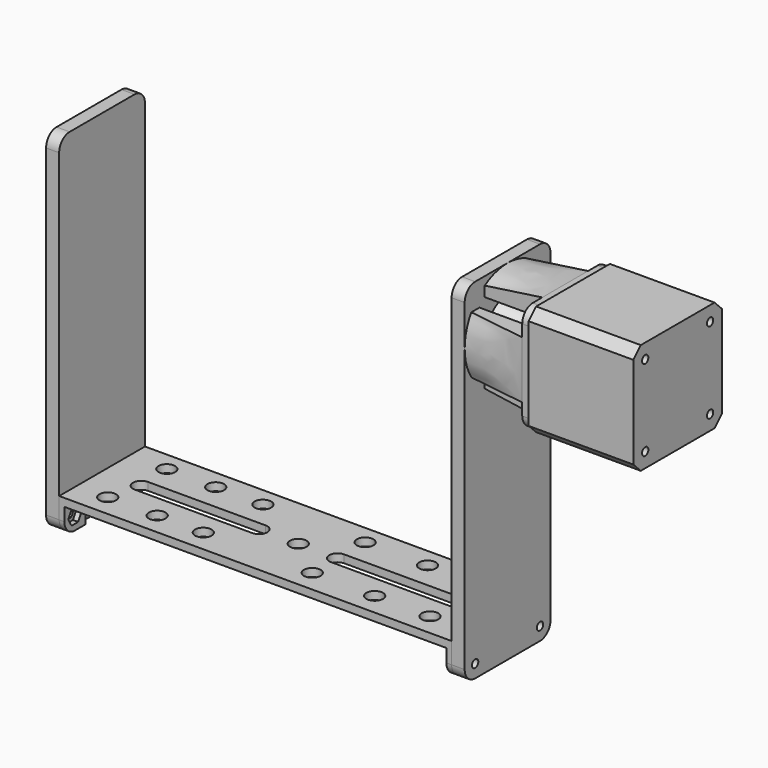
from build123d import *

# Parameters (mm, degrees)
PAD002_DEPTH            = 40
SKETCH006_R             = 1.5
HOLE_DEPTH              = 4.5
HOLE_TIPS_R             = 1.5
SKETCH002_R             = 1.5
HOLE001_DEPTH           = 4.5
HOLE001_TIPS_R          = 1.5
SKETCH007_R             = 11
PAD003_DEPTH            = 2
PAD004_DEPTH            = 23
BODY001_PLACEMENT_ANGLE = 90
PAD_DEPTH               = 3
SKETCH_R                = 1.5
POCKET_DEPTH            = 3
SKETCH014_W             = 21.885622
SKETCH014_H             = 7.057189
ARRAY_COUNT             = 4
FUSION_ROLL_ANGLE       = -90
FUSION_PLACEMENT_ANGLE  = 90
SKETCH017_R             = 1.5
PAD005_DEPTH            = 5
SKETCH018_R             = 10
SKETCH019_R             = 6
POCKET001_DEPTH         = 18
PAD006_DEPTH            = 2
SKETCH022_W             = 41
SKETCH022_H             = 3
PAD007_DEPTH            = 150
SKETCH023_R             = 3.175
POCKET002_DEPTH         = 5
PAD008_DEPTH            = 2
SKETCH025_R             = 1.5
PAD009_DEPTH            = 5


with BuildPart() as motor_nema17:
    # Sketch005 → Pad002 (new body)
    with BuildSketch(Plane.XY):
        Polygon((-17.614466, 21.15), (17.614466, 21.15), (21.15, 17.614466), (21.15, -17.614466), (17.614466, -21.15), (-17.614466, -21.15), (-21.15, -17.614466), (-21.15, 17.614466), align=None)
    extrude(amount=PAD002_DEPTH)

    # Sketch006 (on Face10 of Pad002) → Hole (cut)
    with BuildSketch(Plane.XY.offset(40)):
        with Locations((15.5, 15.5)):
            Circle(SKETCH006_R)
        with Locations((-15.5, 15.5)):
            Circle(SKETCH006_R)
        with Locations((-15.5, -15.5)):
            Circle(SKETCH006_R)
        with Locations((15.5, -15.5)):
            Circle(SKETCH006_R)
    extrude(amount=-HOLE_DEPTH, mode=Mode.SUBTRACT)

    # Hole tips → Hole tip 1 section 0
    with BuildSketch(Plane.XY.offset(35.5), mode=Mode.PRIVATE) as hole_tip_1_s0:
        with Locations((15.5, 15.5)):
            Circle(HOLE_TIPS_R)
    loft([hole_tip_1_s0.sketch, Vertex(15.5, 15.5, 34.598709)], mode=Mode.SUBTRACT)

    # Hole tips → Hole tip 2 section 0
    with BuildSketch(Plane.XY.offset(35.5), mode=Mode.PRIVATE) as hole_tip_2_s0:
        with Locations((-15.5, 15.5)):
            Circle(HOLE_TIPS_R)
    loft([hole_tip_2_s0.sketch, Vertex(-15.5, 15.5, 34.598709)], mode=Mode.SUBTRACT)

    # Hole tips → Hole tip 3 section 0
    with BuildSketch(Plane.XY.offset(35.5), mode=Mode.PRIVATE) as hole_tip_3_s0:
        with Locations((-15.5, -15.5)):
            Circle(HOLE_TIPS_R)
    loft([hole_tip_3_s0.sketch, Vertex(-15.5, -15.5, 34.598709)], mode=Mode.SUBTRACT)

    # Hole tips → Hole tip 4 section 0
    with BuildSketch(Plane.XY.offset(35.5), mode=Mode.PRIVATE) as hole_tip_4_s0:
        with Locations((15.5, -15.5)):
            Circle(HOLE_TIPS_R)
    loft([hole_tip_4_s0.sketch, Vertex(15.5, -15.5, 34.598709)], mode=Mode.SUBTRACT)

    # Sketch002 → Hole001 (cut)
    with BuildSketch(Plane.XY):
        with Locations((-15.5, 15.5)):
            Circle(SKETCH002_R)
        with Locations((-15.5, -15.5)):
            Circle(SKETCH002_R)
        with Locations((15.5, -15.5)):
            Circle(SKETCH002_R)
        with Locations((15.5, 15.5)):
            Circle(SKETCH002_R)
    extrude(amount=HOLE001_DEPTH, mode=Mode.SUBTRACT)

    # Hole001 tips → Hole001 tip 1 section 0
    with BuildSketch(Plane.XY.offset(4.5), mode=Mode.PRIVATE) as hole001_tip_1_s0:
        with Locations((-15.5, 15.5)):
            Circle(HOLE001_TIPS_R)
    loft([hole001_tip_1_s0.sketch, Vertex(-15.5, 15.5, 5.401291)], mode=Mode.SUBTRACT)

    # Hole001 tips → Hole001 tip 2 section 0
    with BuildSketch(Plane.XY.offset(4.5), mode=Mode.PRIVATE) as hole001_tip_2_s0:
        with Locations((-15.5, -15.5)):
            Circle(HOLE001_TIPS_R)
    loft([hole001_tip_2_s0.sketch, Vertex(-15.5, -15.5, 5.401291)], mode=Mode.SUBTRACT)

    # Hole001 tips → Hole001 tip 3 section 0
    with BuildSketch(Plane.XY.offset(4.5), mode=Mode.PRIVATE) as hole001_tip_3_s0:
        with Locations((15.5, -15.5)):
            Circle(HOLE001_TIPS_R)
    loft([hole001_tip_3_s0.sketch, Vertex(15.5, -15.5, 5.401291)], mode=Mode.SUBTRACT)

    # Hole001 tips → Hole001 tip 4 section 0
    with BuildSketch(Plane.XY.offset(4.5), mode=Mode.PRIVATE) as hole001_tip_4_s0:
        with Locations((15.5, 15.5)):
            Circle(HOLE001_TIPS_R)
    loft([hole001_tip_4_s0.sketch, Vertex(15.5, 15.5, 5.401291)], mode=Mode.SUBTRACT)

    # Sketch007 (on Face5 of Hole001) → Pad003 (join)
    with BuildSketch(Plane.XY.offset(40)):
        Circle(SKETCH007_R)
    extrude(amount=PAD003_DEPTH)

    # Sketch008 (on Face27 of Pad003) → Pad004 (join)
    with BuildSketch(Plane.XY.offset(42)):
        with BuildLine():
            ThreePointArc((-1.581929, 1.6), (0, -2.25), (1.581929, 1.6))
            Line((-1.581929, 1.6), (1.581929, 1.6))
        make_face()
    extrude(amount=PAD004_DEPTH)


with BuildPart() as motor_nema17_1:
    # Body001 placement: moved
    add(motor_nema17.part.rotate(Axis((0, 0, 0), (0, -1, 0)), BODY001_PLACEMENT_ANGLE))


with BuildPart() as motor_attachment:
    # Sketch001 → Pad (new body)
    with BuildSketch(Plane.XY):
        with BuildLine():
            ThreePointArc((-15.5, 20.5), (-19.035534, 19.035534), (-20.5, 15.5))
            Line((-20.5, 15.5), (-20.5, -15.5))
            ThreePointArc((-20.5, -15.5), (-19.035534, -19.035534), (-15.5, -20.5))
            Line((-15.5, -20.5), (15.5, -20.5))
            ThreePointArc((15.5, -20.5), (19.035534, -19.035534), (20.5, -15.5))
            Line((20.5, -15.5), (20.5, 15.5))
            ThreePointArc((20.5, 15.5), (19.035534, 19.035534), (15.5, 20.5))
            Line((-15.5, 20.5), (15.5, 20.5))
        make_face()
        with BuildLine():
            ThreePointArc((-10.942811, 13.442811), (-12.710578, 12.710578), (-13.442811, 10.942811))
            Line((-13.442811, -10.942811), (-13.442811, 10.942811))
            ThreePointArc((-13.442811, -10.942811), (-12.710578, -12.710578), (-10.942811, -13.442811))
            Line((10.942811, -13.442811), (-10.942811, -13.442811))
            ThreePointArc((10.942811, -13.442811), (12.710578, -12.710578), (13.442811, -10.942811))
            Line((13.442811, 10.942811), (13.442811, -10.942811))
            ThreePointArc((13.442811, 10.942811), (12.710578, 12.710578), (10.942811, 13.442811))
            Line((-10.942811, 13.442811), (10.942811, 13.442811))
        make_face(mode=Mode.SUBTRACT)
    extrude(amount=PAD_DEPTH)

    # Sketch → Pocket (cut)
    with BuildSketch(Plane.XY):
        with Locations((-15.5, 15.5)):
            Circle(SKETCH_R)
        with Locations((15.5, 15.5)):
            Circle(SKETCH_R)
        with Locations((15.5, -15.5)):
            Circle(SKETCH_R)
        with Locations((-15.5, -15.5)):
            Circle(SKETCH_R)
    extrude(amount=POCKET_DEPTH, mode=Mode.SUBTRACT)


with BuildPart() as motor_table_connector:
    # Sketch014 (on ShapeBinder) → AdditiveLoft section 0
    with BuildSketch(Plane.XY.offset(3)):
        with Locations((0, 16.971405)):
            Rectangle(SKETCH014_W, SKETCH014_H)
    # Sketch015 (on ShapeBinder) → AdditiveLoft section 1
    with BuildSketch(Plane.XY.offset(25)):
        with BuildLine():
            ThreePointArc((10.942811, 17.335077), (0, 20.5), (-10.942811, 17.335077))
            Line((-10.942811, 17.335077), (-10.942811, 13.442811))
            Line((-10.942811, 13.442811), (10.942811, 13.442811))
            Line((10.942811, 13.442811), (10.942811, 17.335077))
        make_face()
    loft()

    # Array: Motor-Table-connector ×4 about axis
    array_axis = Axis((0, 0, 0), (0, 0, 1))


with BuildPart() as motor_table_connector_1:
    add(motor_table_connector.part)
    for i in range(1, ARRAY_COUNT):
        add(motor_table_connector.part.rotate(array_axis, i * 360 / ARRAY_COUNT))

    # Fusion: union Motor-Attachment
    add(motor_attachment.part)


with BuildPart() as motor_table_connector_2:
    # Fusion roll: moved
    add(motor_table_connector_1.part.rotate(Axis((0, 0, 0), (1, 0, 0)), FUSION_ROLL_ANGLE))


with BuildPart() as motor_table_connector_3:
    # Fusion placement: moved
    add(motor_table_connector_2.part.moved(Location((-40, 0, 0))).rotate(Axis((-40, 0, 0), (0, 0, 1)), FUSION_PLACEMENT_ANGLE))


with BuildPart() as body:
    # Sketch017 (on ShapeBinder) → Pad005 (new body)
    with BuildSketch(Plane(origin=(-65, 0, 0), x_dir=(0, -1, 0), z_dir=(-1, 0, 0))):
        with BuildLine():
            ThreePointArc((-15.5, 20.5), (-19.035534, 19.035534), (-20.5, 15.5))
            Line((-20.5, 15.5), (-20.5, -108))
            ThreePointArc((-20.5, -108), (-19.035534, -111.535534), (-15.5, -113))
            Line((-15.5, -113), (15.5, -113))
            ThreePointArc((15.5, -113), (19.035534, -111.535534), (20.5, -108))
            Line((20.5, 15.5), (20.5, -108))
            ThreePointArc((20.5, 15.5), (19.035534, 19.035534), (15.5, 20.5))
            Line((-15.5, 20.5), (15.5, 20.5))
        make_face()
        with Locations((15.5, -108)):
            Circle(SKETCH017_R, mode=Mode.SUBTRACT)
        with Locations((-15.5, -108)):
            Circle(SKETCH017_R, mode=Mode.SUBTRACT)
    extrude(amount=PAD005_DEPTH)

    # Sketch018 (on Face11 of Pad005) → AdditiveLoft001 section 0
    with BuildSketch(Plane(origin=(-65, 0, 0), x_dir=(0, -1, 0), z_dir=(1, 0, 0))):
        Circle(SKETCH018_R)
    # Sketch019 (on ShapeBinder) → AdditiveLoft001 section 1
    with BuildSketch(Plane.ZY.offset(47)):
        Circle(SKETCH019_R)
    loft()

    # Sketch020 (on ShapeBinder) → Pocket001 (cut)
    with BuildSketch(Plane.ZY.offset(65)):
        with BuildLine():
            ThreePointArc((-1.933469, 1.955556), (0, -2.75), (1.933469, 1.955556))
            Line((-1.933469, 1.955556), (1.933469, 1.955556))
        make_face()
    extrude(amount=-POCKET001_DEPTH, mode=Mode.SUBTRACT)


with BuildPart() as bridge:
    # Sketch021 (on ShapeBinder) → Pad006 (new body)
    with BuildSketch(Plane(origin=(-70, 0, 0), x_dir=(0, -1, 0), z_dir=(-1, 0, 0))):
        with BuildLine():
            ThreePointArc((-20.5, -108), (-19.035534, -111.535534), (-15.5, -113))
            Line((-15.5, -113), (-10.5, -113))
            Line((-10.5, -108), (-10.5, -113))
            Line((10.5, -108), (-10.5, -108))
            Line((10.5, -113), (10.5, -108))
            Line((15.5, -113), (10.5, -113))
            ThreePointArc((15.5, -113), (19.035534, -111.535534), (20.5, -108))
            Line((20.5, -103), (20.5, -108))
            Line((-20.5, -103), (20.5, -103))
            Line((-20.5, -103), (-20.5, -108))
        make_face()
        Polygon((-13.912287, -105.25), (-17.087713, -105.25), (-18.675426, -108), (-17.087713, -110.75), (-13.912287, -110.75), (-12.324574, -108), align=None, mode=Mode.SUBTRACT)
        Polygon((17.087713, -105.25), (13.912287, -105.25), (12.324574, -108), (13.912287, -110.75), (17.087713, -110.75), (18.675426, -108), align=None, mode=Mode.SUBTRACT)
    extrude(amount=PAD006_DEPTH)

    # Sketch022 (on ShapeBinder) → Pad007 (join)
    with BuildSketch(Plane(origin=(-70, 0, 0), x_dir=(0, -1, 0), z_dir=(-1, 0, 0))):
        with Locations((0, -101.5)):
            Rectangle(SKETCH022_W, SKETCH022_H)
    extrude(amount=PAD007_DEPTH)

    # Sketch023 (on Face6 of Pad007) → Pocket002 (cut)
    with BuildSketch(Plane(origin=(-5, 0, -100), x_dir=(1, 0, 0), z_dir=(0, 0, 1))):
        with Locations((-140, 0)):
            Circle(SKETCH023_R)
        with Locations((-200.806503, 13.187289)):
            Circle(SKETCH023_R)
        with Locations((-182.106384, 13.187289)):
            Circle(SKETCH023_R)
        with Locations((-164.083801, 13.187289)):
            Circle(SKETCH023_R)
        with Locations((-125, 13.187289)):
            Circle(SKETCH023_R)
        with Locations((-101.145392, 13.187289)):
            Circle(SKETCH023_R)
        with Locations((-80, 13.187289)):
            Circle(SKETCH023_R)
        with Locations((-80, -12.072102)):
            Circle(SKETCH023_R)
        with Locations((-101.145392, -12.072102)):
            Circle(SKETCH023_R)
        with Locations((-125, -12.072102)):
            Circle(SKETCH023_R)
        with Locations((-166.658463, -12.072102)):
            Circle(SKETCH023_R)
        with Locations((-184.274506, -12.072102)):
            Circle(SKETCH023_R)
        with Locations((-203.175, -12.072102)):
            Circle(SKETCH023_R)
        with BuildLine():
            ThreePointArc((-200, 3.175), (-203.175, 0), (-200, -3.175))
            Line((-200, -3.175), (-155, -3.175))
            ThreePointArc((-155, -3.175), (-151.825, 0), (-155, 3.175))
            Line((-155, 3.175), (-200, 3.175))
        make_face()
        with BuildLine():
            ThreePointArc((-125, 3.175), (-128.175, 0), (-125, -3.175))
            Line((-125, -3.175), (-80, -3.175))
            ThreePointArc((-80, -3.175), (-76.825, 0), (-80, 3.175))
            Line((-80, 3.175), (-125, 3.175))
        make_face()
    extrude(amount=-POCKET002_DEPTH, mode=Mode.SUBTRACT)

    # Sketch024 (on Face9 of Pocket002) → Pad008 (join)
    with BuildSketch(Plane(origin=(-220, 0, 0), x_dir=(0, -1, 0), z_dir=(-1, 0, 0))):
        with BuildLine():
            Line((-20.5, -103), (20.5, -103))
            Line((20.5, -103), (20.5, -108))
            ThreePointArc((15.5, -113), (19.035534, -111.535534), (20.5, -108))
            Line((15.5, -113), (10.5, -113))
            Line((10.5, -113), (10.5, -108))
            Line((10.5, -108), (-10.5, -108))
            Line((-10.5, -108), (-10.5, -113))
            Line((-10.5, -113), (-15.5, -113))
            ThreePointArc((-20.5, -108), (-19.035534, -111.535534), (-15.5, -113))
            Line((-20.5, -108), (-20.5, -103))
        make_face()
        Polygon((-13.912287, -105.25), (-17.087713, -105.25), (-18.675426, -108), (-17.087713, -110.75), (-13.912287, -110.75), (-12.324574, -108), align=None, mode=Mode.SUBTRACT)
        Polygon((18.675426, -108), (17.087713, -105.25), (13.912287, -105.25), (12.324574, -108), (13.912287, -110.75), (17.087713, -110.75), align=None, mode=Mode.SUBTRACT)
    extrude(amount=-PAD008_DEPTH)


with BuildPart() as body005:
    # Sketch025 (on ShapeBinder) → Pad009 (new body)
    with BuildSketch(Plane(origin=(-220, 0, 0), x_dir=(0, -1, 0), z_dir=(-1, 0, 0))):
        with BuildLine():
            Line((-20.5, 15.5), (-20.5, -108))
            ThreePointArc((-20.5, -108), (-19.035534, -111.535534), (-15.5, -113))
            Line((-15.5, -113), (15.5, -113))
            ThreePointArc((15.5, -113), (19.035534, -111.535534), (20.5, -108))
            Line((20.5, -108), (20.5, 15.5))
            ThreePointArc((20.5, 15.5), (19.035534, 19.035534), (15.5, 20.5))
            Line((15.5, 20.5), (-15.5, 20.5))
            ThreePointArc((-15.5, 20.5), (-19.035534, 19.035534), (-20.5, 15.5))
        make_face()
        with Locations((15.5, -108)):
            Circle(SKETCH025_R, mode=Mode.SUBTRACT)
        with Locations((-15.5, -108)):
            Circle(SKETCH025_R, mode=Mode.SUBTRACT)
    extrude(amount=PAD009_DEPTH)


solid = Compound([motor_nema17_1.part, motor_table_connector_3.part, body.part, bridge.part, body005.part])
